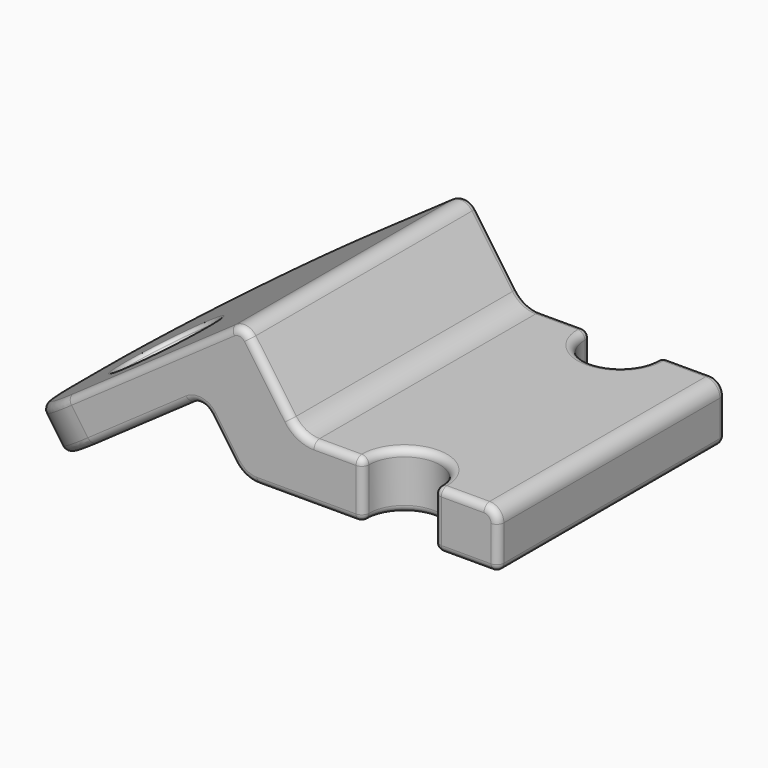
from build123d import *

# Parameters (mm, degrees)
F1_DEPTH  = 20
F2_R      = 2.5
F3_DEPTH  = 8.1959205499
F4_R      = 1
F5_R      = 3.302
F6_DEPTH  = 12.3979262079
F7_R      = 12
F8_R      = 5
F9_R      = 1
F10_R     = 2
F11_R     = 2
F12_R     = 1
F13_R     = 0.5
F16_DEPTH = 3
F17_R     = 0.25


with BuildPart() as f1:
    # F0 (on Front) → F1 (new body)
    with BuildSketch(Plane.XZ):
        Polygon((-20.8577312736, 4.0812632222), (-18, 0), (0, 0), (0, 4), (-14, 4), (-18.0150350545, 9.73406431), (-34.3980759402, -1.737464417), (-32.6773466312, -4.1949205499), align=None)
    extrude(amount=F1_DEPTH)

    # F2 (on face) → F3 (cut, through all)
    with BuildSketch(Plane.XY.offset(4)):
        with Locations((-7, -0.5)):
            Circle(F2_R)
        with Locations((-7, -19.5)):
            Circle(F2_R)
    extrude(amount=-F3_DEPTH, mode=Mode.SUBTRACT)

    # F4
    f4_edges = [f1.edges().sort_by_distance(p)[0] for p in [
        (-20.857731, -10, 4.081263),
    ]]
    fillet(f4_edges, radius=F4_R)

    # F5 (on face) → F6 (cut, through all)
    with BuildSketch(Plane(origin=(-8.7795499837, 0, 12.5384968093), x_dir=(0.8191520443, 0, 0.5735764364), z_dir=(0.5735764364, 0, -0.8191520443))):
        with Locations((-21.5538228746, 14)):
            Circle(F5_R)
    extrude(amount=-F6_DEPTH, mode=Mode.SUBTRACT)

    # F7
    f7_edges = [f1.edges().sort_by_distance(p)[0] for p in [
        (-33.537711, 0, -2.966192),
    ]]
    fillet(f7_edges, radius=F7_R)

    # F8
    f8_edges = [f1.edges().sort_by_distance(p)[0] for p in [
        (-33.537711, -20, -2.966192),
    ]]
    fillet(f8_edges, radius=F8_R)

    # F9
    f9_edges = [f1.edges().sort_by_distance(p)[0] for p in [
        (-18.015035, -10, 9.734064),
    ]]
    fillet(f9_edges, radius=F9_R)

    # F10
    f10_edges = [f1.edges().sort_by_distance(p)[0] for p in [
        (-14, -10, 4),
    ]]
    fillet(f10_edges, radius=F10_R)

    # F11
    f11_edges = [f1.edges().sort_by_distance(p)[0] for p in [
        (-18, -10, 0),
    ]]
    fillet(f11_edges, radius=F11_R)

    # F12
    f12_edges = [f1.edges().sort_by_distance(p)[0] for p in [
        (0, -10, 4),
    ]]
    fillet(f12_edges, radius=F12_R)

    # F13
    f13_edges = [f1.edges().sort_by_distance(p)[0] for p in [
        (-13.204178, 0, 0),
        (-17.882363, 0, 0.225978),
        (-9.44949, 0, 2),
        (-19.440662, 0, 2.057479),
        (-11.204178, 0, 4),
        (-20.929659, 0, 3.673342),
        (-13.882363, 0, 4.225978),
        (-22.262203, 0, 3.097842),
        (-16.019314, 0, 6.88388),
        (-23.707887, 0, 3.916725),
        (-18.086962, 0, 9.326144),
        (-21.701219, 0, 7.15297),
        (-2.775255, 0, 4),
        (-0.292893, 0, 3.707107),
        (-4.55051, 0, 2),
        (0, 0, 1.5),
        (-2.275255, 0, 0),
        (-31.518987, -3.514719, 0.278495),
        (-33.537711, -12, -2.966192),
        (-29.798258, -3.514719, -2.178961),
        (-34.398076, -13.5, -1.737464),
        (-33.537711, -15, -2.966192),
        (-32.677347, -13.5, -4.194921),
        (-33.198456, -18.535534, -0.897481),
        (-29.441951, -20, -0.09831),
        (-31.477726, -18.535534, -3.354937),
        (-13.204178, -20, 0),
        (-17.882363, -20, 0.225978),
        (-9.44949, -20, 2),
        (-19.440662, -20, 2.057479),
        (-11.204178, -20, 4),
        (-20.929659, -20, 3.673342),
        (-13.882363, -20, 4.225978),
        (-25.129235, -20, 1.090324),
        (-16.019314, -20, 6.88388),
        (-18.086962, -20, 9.326144),
        (-24.568251, -20, 5.145453),
        (-2.775255, -20, 4),
        (-0.292893, -20, 3.707107),
        (-4.55051, -20, 2),
        (0, -20, 1.5),
        (-2.275255, -20, 0),
        (-7, -17, 4),
        (-7, -17, 0),
        (-7, -3, 0),
        (-7, -3, 4),
        (0, -10, 3),
        (0, -10, 0),
    ]]
    fillet(f13_edges, radius=F13_R)

    # F15 (on offset) → F16 (join)
    with BuildSketch(Plane(origin=(0, -5, 0), x_dir=(-1, 0, 0), z_dir=(0, 1, 0))):
        with BuildLine():
            Line((20.2841548373, 3.2621111779), (18.5971699875, 0.8528471273))
            ThreePointArc((18.5971699875, 0.8528471273), (18.2627832628, 0.4834910128), (17.8474759412, 0.2082488474))
            Line((17.8474759412, 0.2082488474), (22.8475220997, 2.6879966863))
            Line((22.8475220997, 2.6879966863), (21.6768833179, 3.5076867859))
            ThreePointArc((21.6768833179, 3.5076867859), (20.9296587039, 3.6733424946), (20.2841548373, 3.2621111779))
        make_face()
    extrude(amount=-F16_DEPTH)

    # F17
    f17_edges = [f1.edges().sort_by_distance(p)[0] for p in [
        (-29.140248, -14, -1.718217),
        (-24.590933, -14, 3.298409),
        (-30.860977, -14, 0.739239),
    ]]
    fillet(f17_edges, radius=F17_R)


solid = f1.part
